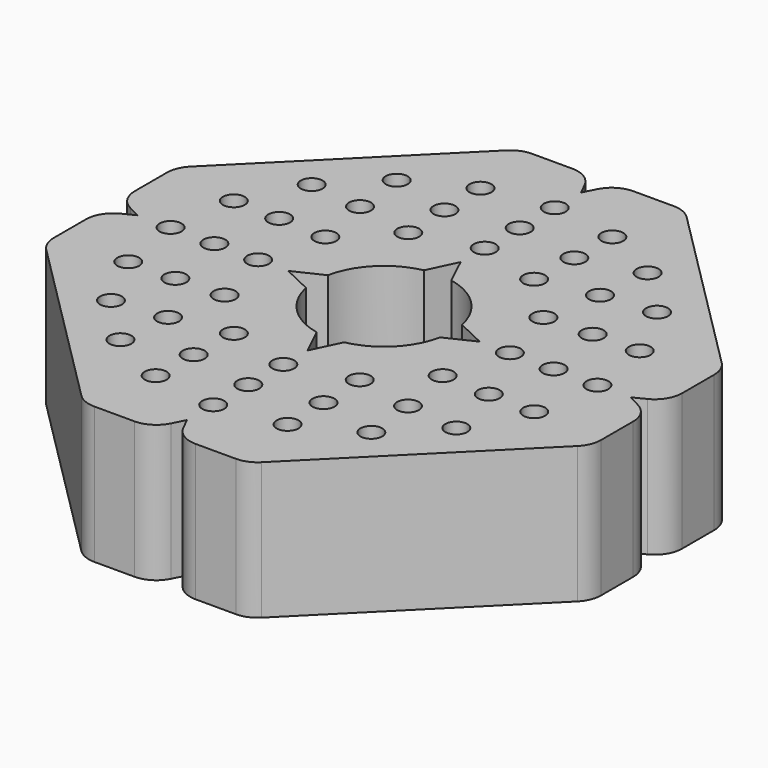
from build123d import *

# Parameters (mm, degrees)
F0_R     = 2
F1_DEPTH = 25


with BuildPart() as f1:
    # F0 (on Top) → F1 (new body)
    with BuildSketch(Plane.XY):
        with BuildLine():
            Line((-5.59017, 50), (-12.928932, 50))
            ThreePointArc((-12.928932, 50), (-14.842349, 49.619398), (-16.464466, 48.535534))
            Line((-16.464466, 48.535534), (-48.535534, 16.464466))
            ThreePointArc((-48.535534, 16.464466), (-49.619398, 14.842349), (-50, 12.928932))
            Line((-50, 12.928932), (-50, 5.59017))
            ThreePointArc((-50, 5.59017), (-49.253254, 2.961514), (-47.236068, 1.118034))
            Line((-47.236068, 1.118034), (-45, 0))
            Line((-45, 0), (-47.236068, -1.118034))
            ThreePointArc((-47.236068, -1.118034), (-49.253254, -2.961514), (-50, -5.59017))
            Line((-50, -5.59017), (-50, -12.928932))
            ThreePointArc((-50, -12.928932), (-49.619398, -14.842349), (-48.535534, -16.464466))
            Line((-48.535534, -16.464466), (-16.464466, -48.535534))
            ThreePointArc((-16.464466, -48.535534), (-14.842349, -49.619398), (-12.928932, -50))
            Line((-12.928932, -50), (-5.59017, -50))
            ThreePointArc((-5.59017, -50), (-2.961514, -49.253254), (-1.118034, -47.236068))
            Line((-1.118034, -47.236068), (0, -45))
            Line((0, -45), (1.118034, -47.236068))
            ThreePointArc((1.118034, -47.236068), (2.961514, -49.253254), (5.59017, -50))
            Line((5.59017, -50), (12.928932, -50))
            ThreePointArc((12.928932, -50), (14.842349, -49.619398), (16.464466, -48.535534))
            Line((16.464466, -48.535534), (48.535534, -16.464466))
            ThreePointArc((48.535534, -16.464466), (49.619398, -14.842349), (50, -12.928932))
            Line((50, -12.928932), (50, -5.59017))
            ThreePointArc((50, -5.59017), (49.253254, -2.961514), (47.236068, -1.118034))
            Line((47.236068, -1.118034), (45, 0))
            Line((45, 0), (47.236068, 1.118034))
            ThreePointArc((47.236068, 1.118034), (49.253254, 2.961514), (50, 5.59017))
            Line((50, 5.59017), (50, 12.928932))
            ThreePointArc((50, 12.928932), (49.619398, 14.842349), (48.535534, 16.464466))
            Line((48.535534, 16.464466), (16.464466, 48.535534))
            ThreePointArc((16.464466, 48.535534), (14.842349, 49.619398), (12.928932, 50))
            Line((12.928932, 50), (5.59017, 50))
            ThreePointArc((5.59017, 50), (2.961514, 49.253254), (1.118034, 47.236068))
            Line((1.118034, 47.236068), (0, 45))
            Line((0, 45), (-1.118034, 47.236068))
            ThreePointArc((-1.118034, 47.236068), (-2.961514, 49.253254), (-5.59017, 50))
        make_face()
        with Locations((-22.923625, -31.551663)):
            Circle(F0_R, mode=Mode.SUBTRACT)
        with Locations((-12.051663, -37.091204)):
            Circle(F0_R, mode=Mode.SUBTRACT)
        with Locations((-11.863186, -28.640266)):
            Circle(F0_R, mode=Mode.SUBTRACT)
        with Locations((-31.551663, -22.923625)):
            Circle(F0_R, mode=Mode.SUBTRACT)
        with Locations((-37.091204, -12.051663)):
            Circle(F0_R, mode=Mode.SUBTRACT)
        with Locations((-28.640266, -11.863186)):
            Circle(F0_R, mode=Mode.SUBTRACT)
        with Locations((-21.92031, -21.92031)):
            Circle(F0_R, mode=Mode.SUBTRACT)
        with Locations((-11.5, -19.918584)):
            Circle(F0_R, mode=Mode.SUBTRACT)
        with Locations((-19.918584, -11.5)):
            Circle(F0_R, mode=Mode.SUBTRACT)
        with Locations((0, -39)):
            Circle(F0_R, mode=Mode.SUBTRACT)
        with Locations((12.051663, -37.091204)):
            Circle(F0_R, mode=Mode.SUBTRACT)
        with Locations((0, -31)):
            Circle(F0_R, mode=Mode.SUBTRACT)
        with Locations((11.863186, -28.640266)):
            Circle(F0_R, mode=Mode.SUBTRACT)
        with Locations((22.923625, -31.551663)):
            Circle(F0_R, mode=Mode.SUBTRACT)
        with Locations((0, -23)):
            Circle(F0_R, mode=Mode.SUBTRACT)
        with Locations((11.5, -19.918584)):
            Circle(F0_R, mode=Mode.SUBTRACT)
        with Locations((21.92031, -21.92031)):
            Circle(F0_R, mode=Mode.SUBTRACT)
        with Locations((19.918584, -11.5)):
            Circle(F0_R, mode=Mode.SUBTRACT)
        with Locations((31.551663, -22.923625)):
            Circle(F0_R, mode=Mode.SUBTRACT)
        with Locations((28.640266, -11.863186)):
            Circle(F0_R, mode=Mode.SUBTRACT)
        with Locations((37.091204, -12.051663)):
            Circle(F0_R, mode=Mode.SUBTRACT)
        with Locations((-39, 0)):
            Circle(F0_R, mode=Mode.SUBTRACT)
        with Locations((-31, 0)):
            Circle(F0_R, mode=Mode.SUBTRACT)
        with Locations((-37.091204, 12.051663)):
            Circle(F0_R, mode=Mode.SUBTRACT)
        with Locations((-28.640266, 11.863186)):
            Circle(F0_R, mode=Mode.SUBTRACT)
        with Locations((-31.551663, 22.923625)):
            Circle(F0_R, mode=Mode.SUBTRACT)
        with Locations((-23, 0)):
            Circle(F0_R, mode=Mode.SUBTRACT)
        with Locations((-19.918584, 11.5)):
            Circle(F0_R, mode=Mode.SUBTRACT)
        with Locations((-21.92031, 21.92031)):
            Circle(F0_R, mode=Mode.SUBTRACT)
        with Locations((-11.5, 19.918584)):
            Circle(F0_R, mode=Mode.SUBTRACT)
        with Locations((-22.923625, 31.551663)):
            Circle(F0_R, mode=Mode.SUBTRACT)
        with Locations((-11.863186, 28.640266)):
            Circle(F0_R, mode=Mode.SUBTRACT)
        with Locations((-12.051663, 37.091204)):
            Circle(F0_R, mode=Mode.SUBTRACT)
        with BuildLine():
            ThreePointArc((-12.247449, 2.5), (-8.838835, 8.838835), (-2.5, 12.247449))
            Line((-2.5, 12.247449), (0, 17.5))
            Line((0, 17.5), (2.5, 12.247449))
            ThreePointArc((2.5, 12.247449), (8.838835, 8.838835), (12.247449, 2.5))
            Line((12.247449, 2.5), (17.5, 0))
            Line((17.5, 0), (12.247449, -2.5))
            ThreePointArc((12.247449, -2.5), (8.838835, -8.838835), (2.5, -12.247449))
            Line((2.5, -12.247449), (0, -17.5))
            Line((0, -17.5), (-2.5, -12.247449))
            ThreePointArc((-2.5, -12.247449), (-8.838835, -8.838835), (-12.247449, -2.5))
            Line((-12.247449, -2.5), (-17.5, 0))
            Line((-17.5, 0), (-12.247449, 2.5))
        make_face(mode=Mode.SUBTRACT)
        with Locations((23, 0)):
            Circle(F0_R, mode=Mode.SUBTRACT)
        with Locations((19.918584, 11.5)):
            Circle(F0_R, mode=Mode.SUBTRACT)
        with Locations((0, 23)):
            Circle(F0_R, mode=Mode.SUBTRACT)
        with Locations((11.5, 19.918584)):
            Circle(F0_R, mode=Mode.SUBTRACT)
        with Locations((21.92031, 21.92031)):
            Circle(F0_R, mode=Mode.SUBTRACT)
        with Locations((31, 0)):
            Circle(F0_R, mode=Mode.SUBTRACT)
        with Locations((28.640266, 11.863186)):
            Circle(F0_R, mode=Mode.SUBTRACT)
        with Locations((37.091204, 12.051663)):
            Circle(F0_R, mode=Mode.SUBTRACT)
        with Locations((39, 0)):
            Circle(F0_R, mode=Mode.SUBTRACT)
        with Locations((31.551663, 22.923625)):
            Circle(F0_R, mode=Mode.SUBTRACT)
        with Locations((0, 31)):
            Circle(F0_R, mode=Mode.SUBTRACT)
        with Locations((11.863186, 28.640266)):
            Circle(F0_R, mode=Mode.SUBTRACT)
        with Locations((12.051663, 37.091204)):
            Circle(F0_R, mode=Mode.SUBTRACT)
        with Locations((22.923625, 31.551663)):
            Circle(F0_R, mode=Mode.SUBTRACT)
        with Locations((0, 39)):
            Circle(F0_R, mode=Mode.SUBTRACT)
    extrude(amount=F1_DEPTH)


solid = f1.part
